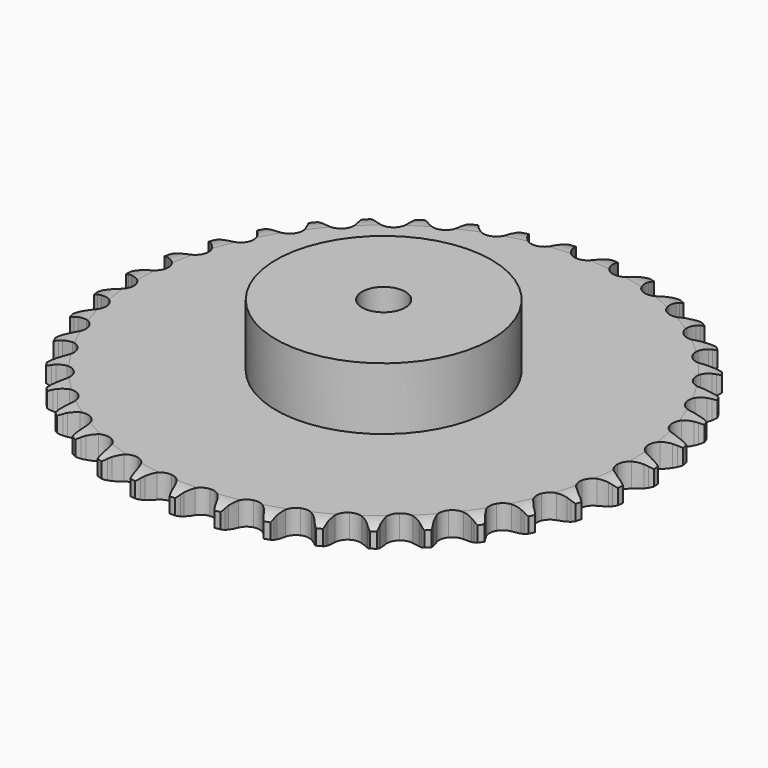
from build123d import *

# Parameters (mm, degrees)
PAD_DEPTH         = 11.1
SKETCH001_R       = 50
PAD001_DEPTH      = 40
SKETCH002_R       = 10
POCKET_DEPTH      = 0.001
POCKET_DEPTH_BACK = 40.001


with BuildPart() as part:
    # Sprocket → Pad (new body)
    with BuildSketch(Plane.XY):
        with BuildLine():
            ThreePointArc((-10.012439, 124.026308), (-8.619754, 122.325503), (-7.64164, 120.35685))
            Line((-7.64164, 120.35685), (-7.053101, 118.737597))
            ThreePointArc((-7.053101, 118.737597), (-6.12318, 116.660231), (-4.903721, 114.738481))
            ThreePointArc((-4.903721, 114.738481), (-2.745245, 112.921123), (0, 112.268866))
            ThreePointArc((0, 112.268866), (2.745245, 112.921123), (4.903721, 114.738481))
            ThreePointArc((4.903721, 114.738481), (6.12318, 116.660231), (7.053101, 118.737597))
            Line((7.053101, 118.737597), (7.64164, 120.35685))
            ThreePointArc((7.64164, 120.35685), (8.619754, 122.325503), (10.012439, 124.026308))
            ThreePointArc((10.012439, 124.026308), (11.11426, 122.124126), (11.763914, 120.024066))
            Line((11.763914, 120.024066), (12.085085, 118.331373))
            ThreePointArc((12.085085, 118.331373), (12.66973, 116.131739), (13.565127, 114.03926))
            ThreePointArc((13.565127, 114.03926), (15.404127, 111.899192), (18.009193, 110.815013))
            ThreePointArc((18.009193, 110.815013), (20.823517, 111.018456), (23.245566, 112.466036))
            Line((23.245566, 112.466036), (26.008615, 116.06858))
            ThreePointArc((26.008615, 116.06858), (26.40838, 116.832014), (26.849279, 117.572455))
            ThreePointArc((26.849279, 117.572455), (28.130521, 119.358715), (29.777999, 120.814091))
            ThreePointArc((29.777999, 120.814091), (30.560421, 118.759798), (30.864788, 116.582721))
            Line((30.864788, 116.582721), (30.910274, 114.860429))
            ThreePointArc((30.910274, 114.860429), (31.134502, 112.595496), (31.682646, 110.386482))
            ThreePointArc((31.682646, 110.386482), (33.15454, 107.979131), (35.551956, 106.49111))
            ThreePointArc((35.551956, 106.49111), (38.362471, 106.240469), (40.985363, 107.280779))
            Line((40.985363, 107.280779), (44.29052, 110.393447))
            ThreePointArc((44.29052, 110.393447), (44.807571, 111.082868), (45.361536, 111.742995))
            ThreePointArc((45.361536, 111.742995), (46.912723, 113.300598), (48.772325, 114.472854))
            ThreePointArc((48.772325, 114.472854), (49.215083, 112.319654), (49.166281, 110.121945))
            Line((49.166281, 110.121945), (48.934902, 108.41466))
            ThreePointArc((48.934902, 108.41466), (48.792906, 106.143088), (48.979601, 103.874752))
            ThreePointArc((48.979601, 103.874752), (50.046269, 101.262468), (52.173943, 99.409144))
            ThreePointArc((52.173943, 99.409144), (54.907856, 98.71091), (57.663661, 99.317007))
            Line((57.663661, 99.317007), (61.425323, 101.859182))
            ThreePointArc((61.425323, 101.859182), (62.04627, 102.456734), (62.698953, 103.019451))
            ThreePointArc((62.698953, 103.019451), (64.479909, 104.308055), (66.503473, 105.166829))
            ThreePointArc((66.503473, 105.166829), (66.5951, 102.970489), (66.194393, 100.809069))
            Line((66.194393, 100.809069), (65.692143, 99.161008))
            ThreePointArc((65.692143, 99.161008), (65.187599, 96.941631), (65.00801, 94.672721))
            ThreePointArc((65.00801, 94.672721), (65.641825, 91.923159), (67.444653, 89.752532))
            ThreePointArc((67.444653, 89.752532), (70.031157, 88.62479), (72.8485, 88.780976))
            Line((72.8485, 88.780976), (76.969243, 90.686817))
            ThreePointArc((76.969243, 90.686817), (77.678003, 91.177025), (78.4125, 91.627757))
            ThreePointArc((78.4125, 91.627757), (80.3771, 92.613988), (82.512216, 93.137039))
            ThreePointArc((82.512216, 93.137039), (82.250339, 90.954443), (81.508105, 88.88529))
            Line((81.508105, 88.88529), (80.747991, 87.339139))
            ThreePointArc((80.747991, 87.339139), (79.893968, 85.229436), (79.352746, 83.018716))
            ThreePointArc((79.352746, 83.018716), (79.537292, 80.203089), (80.968581, 77.771377))
            ThreePointArc((80.968581, 77.771377), (83.340688, 76.243334), (86.146601, 75.945564))
            Line((86.146601, 75.945564), (90.5197, 77.165712))
            ThreePointArc((90.5197, 77.165712), (91.297917, 77.535878), (92.095205, 77.862952))
            ThreePointArc((92.095205, 77.862952), (94.192566, 78.521268), (96.383937, 78.695049))
            ThreePointArc((96.383937, 78.695049), (95.775337, 76.582725), (94.710799, 74.65943))
            Line((94.710799, 74.65943), (93.712509, 73.255231))
            ThreePointArc((93.712509, 73.255231), (92.531125, 71.309843), (91.642288, 69.21457))
            ThreePointArc((91.642288, 69.21457), (91.372785, 66.405802), (92.395465, 63.775985))
            ThreePointArc((92.395465, 63.775985), (94.491739, 61.887217), (97.21355, 61.143203))
            Line((97.21355, 61.143203), (101.725744, 61.646055))
            ThreePointArc((101.725744, 61.646055), (102.553263, 61.886593), (103.392692, 62.081537))
            ThreePointArc((103.392692, 62.081537), (105.568494, 62.394888), (107.759364, 62.214898))
            ThreePointArc((107.759364, 62.214898), (106.819805, 60.227554), (105.460534, 58.499929))
            Line((105.460534, 58.499929), (104.249922, 57.274051))
            ThreePointArc((104.249922, 57.274051), (102.771775, 55.543363), (101.558342, 53.617803))
            ThreePointArc((101.558342, 53.617803), (100.841771, 50.888638), (101.429356, 48.128828))
            ThreePointArc((101.429356, 48.128828), (103.195504, 45.928253), (105.76272, 44.757264))
            Line((105.76272, 44.757264), (110.297145, 44.529798))
            ThreePointArc((110.297145, 44.529798), (111.152532, 44.634478), (112.012362, 44.692243))
            ThreePointArc((112.012362, 44.692243), (114.210254, 44.652513), (116.34388, 44.123413))
            ThreePointArc((116.34388, 44.123413), (115.097695, 42.312521), (113.478897, 40.825311))
            Line((113.478897, 40.825311), (112.087317, 39.809504))
            ThreePointArc((112.087317, 39.809504), (110.350689, 38.338339), (108.844088, 36.632362))
            ThreePointArc((108.844088, 36.632362), (107.699009, 34.053486), (107.836279, 31.235159))
            ThreePointArc((107.836279, 31.235159), (109.226559, 28.779771), (111.57269, 27.212136))
            Line((111.57269, 27.212136), (116.011908, 26.260242))
            ThreePointArc((116.011908, 26.260242), (116.87301, 26.226353), (117.730972, 26.145444))
            ThreePointArc((117.730972, 26.145444), (119.894028, 25.753661), (121.91515, 24.889156))
            ThreePointArc((121.91515, 24.889156), (120.394616, 23.301617), (118.558215, 22.093339))
            Line((118.558215, 22.093339), (117.021709, 21.313911))
            ThreePointArc((117.021709, 21.313911), (115.071579, 20.140372), (113.31083, 18.698163))
            ThreePointArc((113.31083, 18.698163), (111.766898, 16.336367), (111.450299, 13.532516))
            ThreePointArc((111.450299, 13.532516), (112.428704, 10.885908), (114.492987, 8.962228))
            Line((114.492987, 8.962228), (118.722024, 7.31056))
            ThreePointArc((118.722024, 7.31056), (119.566538, 7.138979), (120.400411, 6.921491))
            ThreePointArc((120.400411, 6.921491), (122.472609, 6.187804), (124.328882, 5.010283))
            ThreePointArc((124.328882, 5.010283), (122.57338, 3.687212), (120.566938, 2.789161))
            Line((120.566938, 2.789161), (118.9253, 2.266299))
            ThreePointArc((118.9253, 2.266299), (116.812175, 1.42078), (114.842881, 0.279692))
            ThreePointArc((114.842881, 0.279692), (112.940084, -1.803856), (112.177816, -4.520611))
            ThreePointArc((112.177816, -4.520611), (112.719004, -7.289894), (114.447975, -9.519797))
            Line((114.447975, -9.519797), (118.357301, -11.828461))
            ThreePointArc((118.357301, -11.828461), (119.163356, -12.13329), (119.951542, -12.481724))
            ThreePointArc((119.951542, -12.481724), (121.879215, -13.538315), (123.522562, -14.998354))
            ThreePointArc((123.522562, -14.998354), (121.577557, -16.022689), (119.453041, -16.587255))
            Line((119.453041, -16.587255), (117.748789, -16.840008))
            ThreePointArc((117.748789, -16.840008), (115.527397, -17.335609), (113.400562, -18.146024))
            ThreePointArc((113.400562, -18.146024), (111.18818, -19.89736), (109.999985, -22.456658))
            ThreePointArc((109.999985, -22.456658), (110.089941, -25.276891), (111.438821, -27.755265))
            Line((111.438821, -27.755265), (114.927186, -30.661132))
            ThreePointArc((114.927186, -30.661132), (115.673905, -31.091314), (116.395992, -31.56167))
            ThreePointArc((116.395992, -31.56167), (118.129213, -32.913798), (119.517072, -34.618542))
            ThreePointArc((119.517072, -34.618542), (117.43294, -35.317611), (115.245372, -35.53407))
            Line((115.245372, -35.53407), (113.522646, -35.510169))
            ThreePointArc((113.522646, -35.510169), (111.25052, -35.643015), (109.021227, -36.101767))
            ThreePointArc((109.021227, -36.101767), (106.556561, -37.475533), (104.973213, -39.811088))
            ThreePointArc((104.973213, -39.811088), (104.609607, -42.609231), (105.54346, -45.271885))
            Line((105.54346, -45.271885), (108.520518, -48.699696))
            ThreePointArc((108.520518, -48.699696), (109.188561, -49.244089), (109.825847, -49.824185))
            ThreePointArc((109.825847, -49.824185), (111.319726, -51.436832), (112.416152, -53.342128))
            ThreePointArc((112.416152, -53.342128), (110.246871, -53.697826), (108.052909, -53.560571))
            Line((108.052909, -53.560571), (106.356326, -53.260634))
            ThreePointArc((106.356326, -53.260634), (104.092314, -53.027286), (101.8183, -53.122493))
            ThreePointArc((101.8183, -53.122493), (99.165184, -54.083109), (97.22769, -56.134433))
            ThreePointArc((97.22769, -56.134433), (96.419939, -58.838014), (96.914579, -61.615988))
            Line((96.914579, -61.615988), (99.303225, -65.476963))
            ThreePointArc((99.303225, -65.476963), (99.87529, -66.121467), (100.41127, -66.796279))
            ThreePointArc((100.41127, -66.796279), (101.627116, -68.627678), (102.403714, -70.68418))
            ThreePointArc((102.403714, -70.68418), (100.205466, -70.687295), (98.061933, -70.199881))
            Line((98.061933, -70.199881), (96.435433, -69.631678))
            ThreePointArc((96.435433, -69.631678), (94.238171, -69.038178), (91.978333, -68.767375))
            ThreePointArc((91.978333, -68.767375), (89.20548, -69.289962), (86.96402, -71.003925))
            ThreePointArc((86.96402, -71.003925), (85.733045, -73.542923), (85.775661, -76.364269))
            Line((85.775661, -76.364269), (87.514031, -80.558411))
            ThreePointArc((87.514031, -80.558411), (87.975302, -81.286335), (88.396093, -82.038385))
            ThreePointArc((88.396093, -82.038385), (89.302418, -84.041103), (89.739073, -86.195549))
            ThreePointArc((89.739073, -86.195549), (87.568792, -85.846), (85.531204, -85.021051))
            Line((85.531204, -85.021051), (84.016913, -84.199297))
            ThreePointArc((84.016913, -84.199297), (81.943309, -83.261017), (79.756175, -82.631218))
            ThreePointArc((79.756175, -82.631218), (76.935401, -82.70224), (74.448029, -84.034453))
            ThreePointArc((74.448029, -84.034453), (72.82571, -86.343109), (72.415198, -89.134755))
            Line((72.415198, -89.134755), (73.458269, -93.553438))
            ThreePointArc((73.458269, -93.553438), (73.7968, -94.345929), (74.091505, -95.15574))
            ThreePointArc((74.091505, -95.15574), (74.664834, -97.277908), (74.750237, -99.474499))
            ThreePointArc((74.750237, -99.474499), (72.664132, -98.781339), (70.785261, -97.640221))
            Line((70.785261, -97.640221), (69.422399, -96.586199))
            ThreePointArc((69.422399, -96.586199), (67.526158, -95.32744), (65.468374, -94.354955))
            ThreePointArc((65.468374, -94.354955), (62.672735, -93.972574), (60.003872, -94.888532))
            ThreePointArc((60.003872, -94.888532), (58.032227, -96.907053), (57.17922, -99.596698))
            Line((57.17922, -99.596698), (57.499977, -104.125481))
            ThreePointArc((57.499977, -104.125481), (57.706999, -104.962013), (57.867985, -105.808612))
            ThreePointArc((57.867985, -105.808612), (58.093471, -107.995267), (57.825409, -110.177112))
            ThreePointArc((57.825409, -110.177112), (55.87751, -109.158293), (54.206018, -107.73056))
            Line((54.206018, -107.73056), (53.029881, -106.471569))
            ThreePointArc((53.029881, -106.471569), (51.360115, -104.924932), (49.484976, -103.634949))
            ThreePointArc((49.484976, -103.634949), (46.786879, -102.809067), (44.005647, -103.285049))
            ThreePointArc((44.005647, -103.285049), (41.735741, -104.961156), (40.462331, -107.479139))
            Line((40.462331, -107.479139), (40.052466, -112.000728))
            ThreePointArc((40.052466, -112.000728), (40.122618, -112.859637), (40.145715, -113.721095))
            ThreePointArc((40.145715, -113.721095), (40.017516, -115.915604), (39.402934, -118.026195))
            ThreePointArc((39.402934, -118.026195), (37.643689, -116.708104), (36.222867, -115.030734))
            Line((36.222867, -115.030734), (35.263917, -113.599381))
            ThreePointArc((35.263917, -113.599381), (33.863872, -111.804924), (32.219944, -110.230852))
            ThreePointArc((32.219944, -110.230852), (29.689267, -108.98286), (26.867698, -109.006537))
            ThreePointArc((26.867698, -109.006537), (24.35832, -110.296821), (22.697488, -112.577927))
            Line((22.697488, -112.577927), (21.567617, -116.975216))
            ThreePointArc((21.567617, -116.975216), (21.499082, -117.834255), (21.383692, -118.688263))
            ThreePointArc((21.383692, -118.688263), (20.905129, -120.833789), (19.959943, -122.818462))
            ThreePointArc((19.959943, -122.818462), (18.434917, -121.235238), (17.301563, -119.351673))
            Line((17.301563, -119.351673), (16.584637, -117.785029))
            ThreePointArc((16.584637, -117.785029), (15.490573, -115.789226), (14.120432, -113.971834))
            ThreePointArc((14.120432, -113.971834), (11.822718, -112.334054), (9.03389, -111.904812))
            ThreePointArc((9.03389, -111.904812), (6.350032, -112.775855), (4.344792, -114.761005))
            Line((4.344792, -114.761005), (2.524178, -118.920106))
            ThreePointArc((2.524178, -118.920106), (2.318731, -119.757027), (2.067842, -120.581466))
            ThreePointArc((2.067842, -120.581466), (1.251311, -122.622442), (0, -124.429795))
            ThreePointArc((0, -124.429795), (-1.251311, -122.622442), (-2.067842, -120.581466))
            Line((-2.067842, -120.581466), (-2.524178, -118.920106))
            ThreePointArc((-2.524178, -118.920106), (-3.283924, -116.774649), (-4.344792, -114.761005))
            ThreePointArc((-4.344792, -114.761005), (-6.350032, -112.775855), (-9.03389, -111.904812))
            ThreePointArc((-9.03389, -111.904812), (-11.822718, -112.334054), (-14.120432, -113.971834))
            Line((-14.120432, -113.971834), (-16.584637, -117.785029))
            ThreePointArc((-16.584637, -117.785029), (-16.921675, -118.578156), (-17.301563, -119.351673))
            ThreePointArc((-17.301563, -119.351673), (-18.434917, -121.235238), (-19.959943, -122.818462))
            ThreePointArc((-19.959943, -122.818462), (-20.905129, -120.833789), (-21.383692, -118.688263))
            Line((-21.383692, -118.688263), (-21.567617, -116.975216))
            ThreePointArc((-21.567617, -116.975216), (-21.973369, -114.73567), (-22.697488, -112.577927))
            ThreePointArc((-22.697488, -112.577927), (-24.35832, -110.296821), (-26.867698, -109.006537))
            ThreePointArc((-26.867698, -109.006537), (-29.689267, -108.98286), (-32.219944, -110.230852))
            Line((-32.219944, -110.230852), (-35.263917, -113.599381))
            ThreePointArc((-35.263917, -113.599381), (-35.723817, -114.328172), (-36.222867, -115.030734))
            ThreePointArc((-36.222867, -115.030734), (-37.643689, -116.708104), (-39.402934, -118.026195))
            ThreePointArc((-39.402934, -118.026195), (-40.017516, -115.915604), (-40.145715, -113.721095))
            Line((-40.145715, -113.721095), (-40.052466, -112.000728))
            ThreePointArc((-40.052466, -112.000728), (-40.093715, -109.725097), (-40.462331, -107.479139))
            ThreePointArc((-40.462331, -107.479139), (-41.735741, -104.961156), (-44.005647, -103.285049))
            ThreePointArc((-44.005647, -103.285049), (-46.786879, -102.809067), (-49.484976, -103.634949))
            Line((-49.484976, -103.634949), (-53.029881, -106.471569))
            ThreePointArc((-53.029881, -106.471569), (-53.600732, -107.117149), (-54.206018, -107.73056))
            ThreePointArc((-54.206018, -107.73056), (-55.87751, -109.158293), (-57.825409, -110.177112))
            ThreePointArc((-57.825409, -110.177112), (-58.093471, -107.995267), (-57.867985, -105.808612))
            Line((-57.867985, -105.808612), (-57.499977, -104.125481))
            ThreePointArc((-57.499977, -104.125481), (-57.175655, -101.872701), (-57.17922, -99.596698))
            ThreePointArc((-57.17922, -99.596698), (-58.032227, -96.907053), (-60.003872, -94.888532))
            ThreePointArc((-60.003872, -94.888532), (-62.672735, -93.972574), (-65.468374, -94.354955))
            Line((-65.468374, -94.354955), (-69.422399, -96.586199))
            ThreePointArc((-69.422399, -96.586199), (-70.089415, -97.131848), (-70.785261, -97.640221))
            ThreePointArc((-70.785261, -97.640221), (-72.664132, -98.781339), (-74.750237, -99.474499))
            ThreePointArc((-74.750237, -99.474499), (-74.664834, -97.277908), (-74.091505, -95.15574))
            Line((-74.091505, -95.15574), (-73.458269, -93.553438))
            ThreePointArc((-73.458269, -93.553438), (-72.776776, -91.381856), (-72.415198, -89.134755))
            ThreePointArc((-72.415198, -89.134755), (-72.82571, -86.343109), (-74.448029, -84.034453))
            ThreePointArc((-74.448029, -84.034453), (-76.935401, -82.70224), (-79.756175, -82.631218))
            Line((-79.756175, -82.631218), (-84.016913, -84.199297))
            ThreePointArc((-84.016913, -84.199297), (-84.76282, -84.630883), (-85.531204, -85.021051))
            ThreePointArc((-85.531204, -85.021051), (-87.568792, -85.846), (-89.739073, -86.195549))
            ThreePointArc((-89.739073, -86.195549), (-89.302418, -84.041103), (-88.396093, -82.038385))
            Line((-88.396093, -82.038385), (-87.514031, -80.558411))
            ThreePointArc((-87.514031, -80.558411), (-86.493017, -78.524269), (-85.775661, -76.364269))
            ThreePointArc((-85.775661, -76.364269), (-85.733045, -73.542923), (-86.96402, -71.003925))
            ThreePointArc((-86.96402, -71.003925), (-89.20548, -69.289962), (-91.978333, -68.767375))
            Line((-91.978333, -68.767375), (-96.435433, -69.631678))
            ThreePointArc((-96.435433, -69.631678), (-97.240912, -69.938023), (-98.061933, -70.199881))
            ThreePointArc((-98.061933, -70.199881), (-100.205466, -70.687295), (-102.403714, -70.68418))
            ThreePointArc((-102.403714, -70.68418), (-101.627116, -68.627678), (-100.41127, -66.796279))
            Line((-100.41127, -66.796279), (-99.303225, -65.476963))
            ThreePointArc((-99.303225, -65.476963), (-97.969133, -63.632945), (-96.914579, -61.615988))
            ThreePointArc((-96.914579, -61.615988), (-96.419939, -58.838014), (-97.22769, -56.134433))
            ThreePointArc((-97.22769, -56.134433), (-99.165184, -54.083109), (-101.8183, -53.122493))
            Line((-101.8183, -53.122493), (-106.356326, -53.260634))
            ThreePointArc((-106.356326, -53.260634), (-107.200516, -53.433805), (-108.052909, -53.560571))
            ThreePointArc((-108.052909, -53.560571), (-110.246871, -53.697826), (-112.416152, -53.342128))
            ThreePointArc((-112.416152, -53.342128), (-111.319726, -51.436832), (-109.825847, -49.824185))
            Line((-109.825847, -49.824185), (-108.520518, -48.699696))
            ThreePointArc((-108.520518, -48.699696), (-106.907901, -47.093561), (-105.54346, -45.271885))
            ThreePointArc((-105.54346, -45.271885), (-104.609607, -42.609231), (-104.973213, -39.811088))
            ThreePointArc((-104.973213, -39.811088), (-106.556561, -37.475533), (-109.021227, -36.101767))
            Line((-109.021227, -36.101767), (-113.522646, -35.510169))
            ThreePointArc((-113.522646, -35.510169), (-114.383682, -35.545679), (-115.245372, -35.53407))
            ThreePointArc((-115.245372, -35.53407), (-117.43294, -35.317611), (-119.517072, -34.618542))
            ThreePointArc((-119.517072, -34.618542), (-118.129213, -32.913798), (-116.395992, -31.56167))
            Line((-116.395992, -31.56167), (-114.927186, -30.661132))
            ThreePointArc((-114.927186, -30.661132), (-113.07781, -29.334478), (-111.438821, -27.755265))
            ThreePointArc((-111.438821, -27.755265), (-110.089941, -25.276891), (-109.999985, -22.456658))
            ThreePointArc((-109.999985, -22.456658), (-111.18818, -19.89736), (-113.400562, -18.146024))
            Line((-113.400562, -18.146024), (-117.748789, -16.840008))
            ThreePointArc((-117.748789, -16.840008), (-118.604372, -16.736939), (-119.453041, -16.587255))
            ThreePointArc((-119.453041, -16.587255), (-121.577557, -16.022689), (-123.522562, -14.998354))
            ThreePointArc((-123.522562, -14.998354), (-121.879215, -13.538315), (-119.951542, -12.481724))
            Line((-119.951542, -12.481724), (-118.357301, -11.828461))
            ThreePointArc((-118.357301, -11.828461), (-116.319064, -10.815648), (-114.447975, -9.519797))
            ThreePointArc((-114.447975, -9.519797), (-112.719004, -7.289894), (-112.177816, -4.520611))
            ThreePointArc((-112.177816, -4.520611), (-112.940084, -1.803856), (-114.842881, 0.279692))
            Line((-114.842881, 0.279692), (-118.9253, 2.266299))
            ThreePointArc((-118.9253, 2.266299), (-119.75327, 2.505279), (-120.566938, 2.789161))
            ThreePointArc((-120.566938, 2.789161), (-122.57338, 3.687212), (-124.328882, 5.010283))
            ThreePointArc((-124.328882, 5.010283), (-122.472609, 6.187804), (-120.400411, 6.921491))
            Line((-120.400411, 6.921491), (-118.722024, 7.31056))
            ThreePointArc((-118.722024, 7.31056), (-116.547714, 7.983302), (-114.492987, 8.962228))
            ThreePointArc((-114.492987, 8.962228), (-112.428704, 10.885908), (-111.450299, 13.532516))
            ThreePointArc((-111.450299, 13.532516), (-111.766898, 16.336367), (-113.31083, 18.698163))
            Line((-113.31083, 18.698163), (-117.021709, 21.313911))
            ThreePointArc((-117.021709, 21.313911), (-117.800621, 21.682612), (-118.558215, 22.093339))
            ThreePointArc((-118.558215, 22.093339), (-120.394616, 23.301617), (-121.91515, 24.889156))
            ThreePointArc((-121.91515, 24.889156), (-119.894028, 25.753661), (-117.730972, 26.145444))
            Line((-117.730972, 26.145444), (-116.011908, 26.260242))
            ThreePointArc((-116.011908, 26.260242), (-113.75784, 26.575488), (-111.57269, 27.212136))
            ThreePointArc((-111.57269, 27.212136), (-109.226559, 28.779771), (-107.836279, 31.235159))
            ThreePointArc((-107.836279, 31.235159), (-107.699009, 34.053486), (-108.844088, 36.632362))
            Line((-108.844088, 36.632362), (-112.087317, 39.809504))
            ThreePointArc((-112.087317, 39.809504), (-112.796999, 40.298376), (-113.478897, 40.825311))
            ThreePointArc((-113.478897, 40.825311), (-115.097695, 42.312521), (-116.34388, 44.123413))
            ThreePointArc((-116.34388, 44.123413), (-114.210254, 44.652513), (-112.012362, 44.692243))
            Line((-112.012362, 44.692243), (-110.297145, 44.529798))
            ThreePointArc((-110.297145, 44.529798), (-108.021698, 44.479383), (-105.76272, 44.757264))
            ThreePointArc((-105.76272, 44.757264), (-103.195504, 45.928253), (-101.429356, 48.128828))
            ThreePointArc((-101.429356, 48.128828), (-100.841771, 50.888638), (-101.558342, 53.617803))
            Line((-101.558342, 53.617803), (-104.249922, 57.274051))
            ThreePointArc((-104.249922, 57.274051), (-104.871993, 57.870434), (-105.460534, 58.499929))
            ThreePointArc((-105.460534, 58.499929), (-106.819805, 60.227554), (-107.759364, 62.214898))
            ThreePointArc((-107.759364, 62.214898), (-105.568494, 62.394888), (-103.392692, 62.081537))
            Line((-103.392692, 62.081537), (-101.725744, 61.646055))
            ThreePointArc((-101.725744, 61.646055), (-99.487851, 61.231286), (-97.21355, 61.143203))
            ThreePointArc((-97.21355, 61.143203), (-94.491739, 61.887217), (-92.395465, 63.775985))
            ThreePointArc((-92.395465, 63.775985), (-91.372785, 66.405802), (-91.642288, 69.21457))
            Line((-91.642288, 69.21457), (-93.712509, 73.255231))
            ThreePointArc((-93.712509, 73.255231), (-94.230858, 73.943678), (-94.710799, 74.65943))
            ThreePointArc((-94.710799, 74.65943), (-95.775337, 76.582725), (-96.383937, 78.695049))
            ThreePointArc((-96.383937, 78.695049), (-94.192566, 78.521268), (-92.095205, 77.862952))
            Line((-92.095205, 77.862952), (-90.5197, 77.165712))
            ThreePointArc((-90.5197, 77.165712), (-88.37732, 76.39733), (-86.146601, 75.945564))
            ThreePointArc((-86.146601, 75.945564), (-83.340688, 76.243334), (-80.968581, 77.771377))
            ThreePointArc((-80.968581, 77.771377), (-79.537292, 80.203089), (-79.352746, 83.018716))
            Line((-79.352746, 83.018716), (-80.747991, 87.339139))
            ThreePointArc((-80.747991, 87.339139), (-81.149193, 88.101819), (-81.508105, 88.88529))
            ThreePointArc((-81.508105, 88.88529), (-82.250339, 90.954443), (-82.512216, 93.137039))
            ThreePointArc((-82.512216, 93.137039), (-80.3771, 92.613988), (-78.4125, 91.627757))
            Line((-78.4125, 91.627757), (-76.969243, 90.686817))
            ThreePointArc((-76.969243, 90.686817), (-74.977863, 89.584724), (-72.8485, 88.780976))
            ThreePointArc((-72.8485, 88.780976), (-70.031157, 88.62479), (-67.444653, 89.752532))
            ThreePointArc((-67.444653, 89.752532), (-65.641825, 91.923159), (-65.00801, 94.672721))
            Line((-65.00801, 94.672721), (-65.692143, 99.161008))
            ThreePointArc((-65.692143, 99.161008), (-65.965807, 99.97817), (-66.194393, 100.809069))
            ThreePointArc((-66.194393, 100.809069), (-66.5951, 102.970489), (-66.503473, 105.166829))
            ThreePointArc((-66.503473, 105.166829), (-64.479909, 104.308055), (-62.698953, 103.019451))
            Line((-62.698953, 103.019451), (-61.425323, 101.859182))
            ThreePointArc((-61.425323, 101.859182), (-59.636519, 100.451921), (-57.663661, 99.317007))
            ThreePointArc((-57.663661, 99.317007), (-54.907856, 98.71091), (-52.173943, 99.409144))
            ThreePointArc((-52.173943, 99.409144), (-50.046269, 101.262468), (-48.979601, 103.874752))
            Line((-48.979601, 103.874752), (-48.934902, 108.41466))
            ThreePointArc((-48.934902, 108.41466), (-49.07394, 109.265138), (-49.166281, 110.121945))
            ThreePointArc((-49.166281, 110.121945), (-49.215083, 112.319654), (-48.772325, 114.472854))
            ThreePointArc((-48.772325, 114.472854), (-46.912723, 113.300598), (-45.361536, 111.742995))
            Line((-45.361536, 111.742995), (-44.29052, 110.393447))
            ThreePointArc((-44.29052, 110.393447), (-42.750621, 108.717465), (-40.985363, 107.280779))
            ThreePointArc((-40.985363, 107.280779), (-38.362471, 106.240469), (-35.551956, 106.49111))
            ThreePointArc((-35.551956, 106.49111), (-33.15454, 107.979131), (-31.682646, 110.386482))
            Line((-31.682646, 110.386482), (-30.910274, 114.860429))
            ThreePointArc((-30.910274, 114.860429), (-30.911085, 115.722197), (-30.864788, 116.582721))
            ThreePointArc((-30.864788, 116.582721), (-30.560421, 118.759798), (-29.777999, 120.814091))
            ThreePointArc((-29.777999, 120.814091), (-28.130521, 119.358715), (-26.849279, 117.572455))
            Line((-26.849279, 117.572455), (-26.008615, 116.06858))
            ThreePointArc((-26.008615, 116.06858), (-24.757504, 114.167284), (-23.245566, 112.466036))
            ThreePointArc((-23.245566, 112.466036), (-20.823517, 111.018456), (-18.009193, 110.815013))
            ThreePointArc((-18.009193, 110.815013), (-15.404127, 111.899192), (-13.565127, 114.03926))
            Line((-13.565127, 114.03926), (-12.085085, 118.331373))
            ThreePointArc((-12.085085, 118.331373), (-11.947649, 119.182112), (-11.763914, 120.024066))
            ThreePointArc((-11.763914, 120.024066), (-11.11426, 122.124126), (-10.012439, 124.026308))
        make_face()
    extrude(amount=PAD_DEPTH)

    # Sketch → Groove (revolve, cut)
    with BuildSketch(Plane.XZ):
        with BuildLine():
            Line((114.064719, 0), (122.55, 0))
            Line((131.035281, 0), (122.55, 0))
            Line((131.035281, 11.1), (131.035281, 0))
            Line((122.55, 11.1), (131.035281, 11.1))
            Line((114.064719, 11.1), (122.55, 11.1))
            ThreePointArc((122.55, 9.1), (118.423618, 10.593242), (114.064719, 11.1))
            Line((122.55, 2), (122.55, 9.1))
            ThreePointArc((114.064719, 0), (118.423618, 0.506758), (122.55, 2))
        make_face()
    revolve(axis=Axis((0, 0, 0), (0, 0, 1)), mode=Mode.SUBTRACT)

    # Sketch001 → Pad001 (join)
    with BuildSketch(Plane.XY):
        Circle(SKETCH001_R)
    extrude(amount=PAD001_DEPTH)

    # Sketch002 → Pocket (cut, two sides)
    with BuildSketch(Plane.XY) as pocket_sk:
        Circle(SKETCH002_R)
    extrude(amount=-POCKET_DEPTH, mode=Mode.SUBTRACT)
    extrude(pocket_sk.sketch, amount=POCKET_DEPTH_BACK, mode=Mode.SUBTRACT)


solid = part.part
